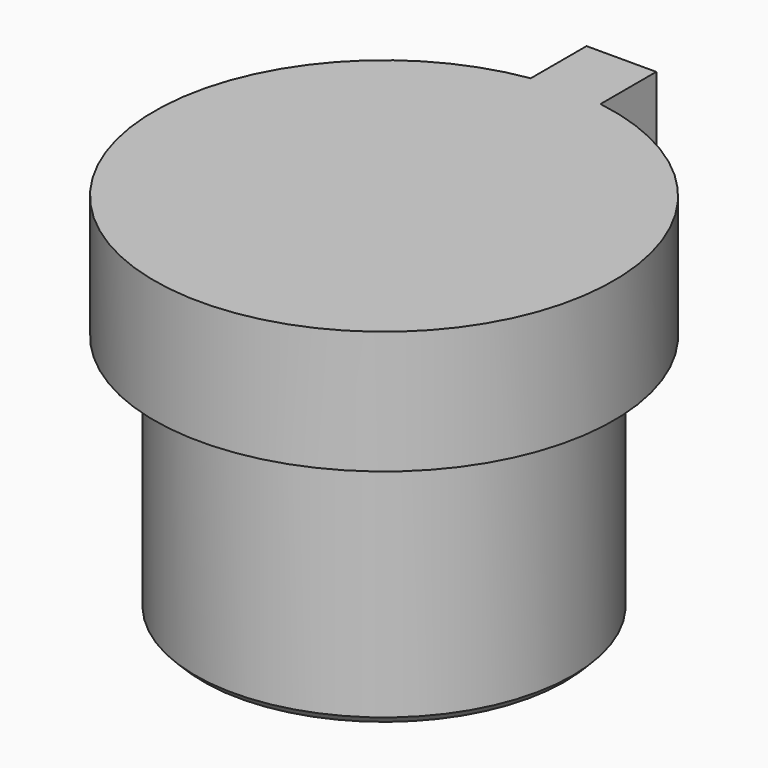
from build123d import *

# Parameters (mm, degrees)
SKETCH055_R     = 2.3
PAD038_DEPTH    = 3
PAD039_DEPTH    = 1.5
SKETCH057_W     = 2.2
SKETCH057_H     = 2.2
POCKET010_DEPTH = 0.6
CHAMFER004_SIZE = 0.1


with BuildPart() as part:
    # Sketch055 → Pad038 (new body)
    with BuildSketch(Plane.XY):
        Circle(SKETCH055_R)
    extrude(amount=PAD038_DEPTH)

    # Sketch056 (on Face3 of Pad038) → Pad039 (join)
    with BuildSketch(Plane.XY.offset(3)):
        with BuildLine():
            Line((0.425, 2.767558), (0.425, 3.617558))
            Line((0.425, 3.617558), (-0.425, 3.617558))
            Line((-0.425, 3.617558), (-0.425, 2.767558))
            ThreePointArc((-0.425, 2.767558), (0, -2.8), (0.425, 2.767558))
        make_face()
    extrude(amount=PAD039_DEPTH)

    # Sketch057 → Pocket010 (cut)
    with BuildSketch(Plane.XY):
        Rectangle(SKETCH057_W, SKETCH057_H)
    extrude(amount=POCKET010_DEPTH, mode=Mode.SUBTRACT)

    # Chamfer004
    chamfer004_edges = [part.edges().sort_by_distance(p)[0] for p in [
        (0, 1.1, 0),
        (0, -1.1, 0),
        (1.1, 0, 0),
        (-2.3, 0, 0),
        (-1.1, 0, 0),
    ]]
    chamfer(chamfer004_edges, length=CHAMFER004_SIZE)


with BuildPart() as part_1:
    # Body016 placement: moved
    add(part.part.moved(Location((63.6, 11.5, -1.5))))


solid = part_1.part
